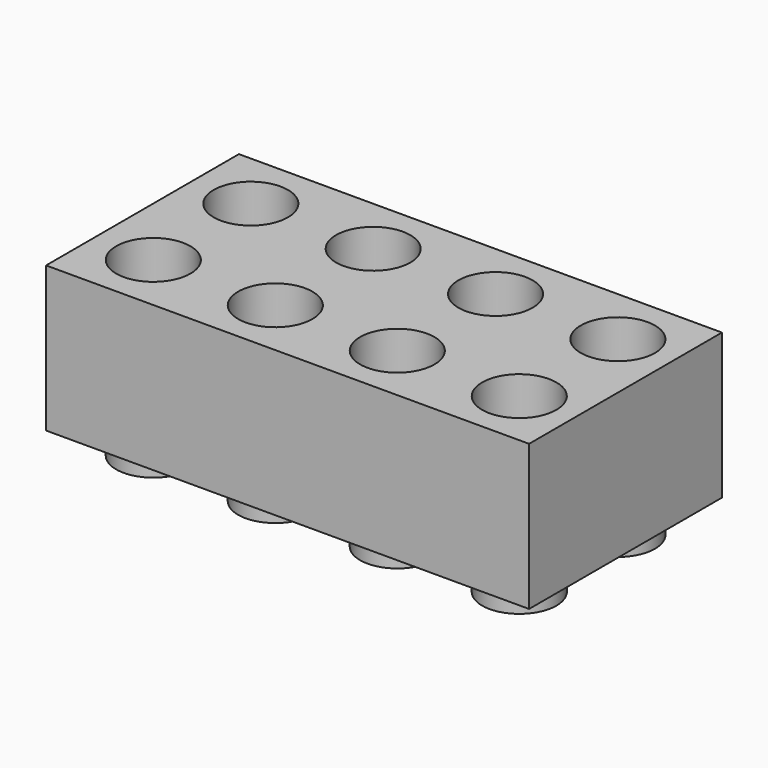
from build123d import *

# Parameters (mm, degrees)
F0_R     = 2.435
F1_DEPTH = 1.77
F0_W     = 31.66
F0_H     = 15.8
F2_DEPTH = 9.53


with BuildPart() as f1:
    # F0 (on Top) → F1 (new body)
    with BuildSketch(Plane.XY):
        with Locations((-11.925, 3.995)):
            Circle(F0_R)
        with Locations((-3.905, 3.995)):
            Circle(F0_R)
        with Locations((-11.925, -3.995)):
            Circle(F0_R)
        with Locations((-3.905056, -4.025)):
            Circle(F0_R)
        with Locations((4.114888, -4.055)):
            Circle(F0_R)
        with Locations((4.115, 3.995)):
            Circle(F0_R)
        with Locations((12.135, 3.995)):
            Circle(F0_R)
        with Locations((12.134832, -4.085)):
            Circle(F0_R)
    extrude(amount=-F1_DEPTH)


with BuildPart() as f2:
    # F0 (on Top) → F2 (new body)
    with BuildSketch(Plane.XY):
        Rectangle(F0_W, F0_H)
        with Locations((-11.925, -3.995)):
            Circle(F0_R, mode=Mode.SUBTRACT)
        with Locations((-3.905056, -4.025)):
            Circle(F0_R, mode=Mode.SUBTRACT)
        with Locations((4.114888, -4.055)):
            Circle(F0_R, mode=Mode.SUBTRACT)
        with Locations((12.134832, -4.085)):
            Circle(F0_R, mode=Mode.SUBTRACT)
        with Locations((-11.925, 3.995)):
            Circle(F0_R, mode=Mode.SUBTRACT)
        with Locations((-3.905, 3.995)):
            Circle(F0_R, mode=Mode.SUBTRACT)
        with Locations((4.115, 3.995)):
            Circle(F0_R, mode=Mode.SUBTRACT)
        with Locations((12.135, 3.995)):
            Circle(F0_R, mode=Mode.SUBTRACT)
    extrude(amount=F2_DEPTH)


solid = Compound([f1.part, f2.part])
